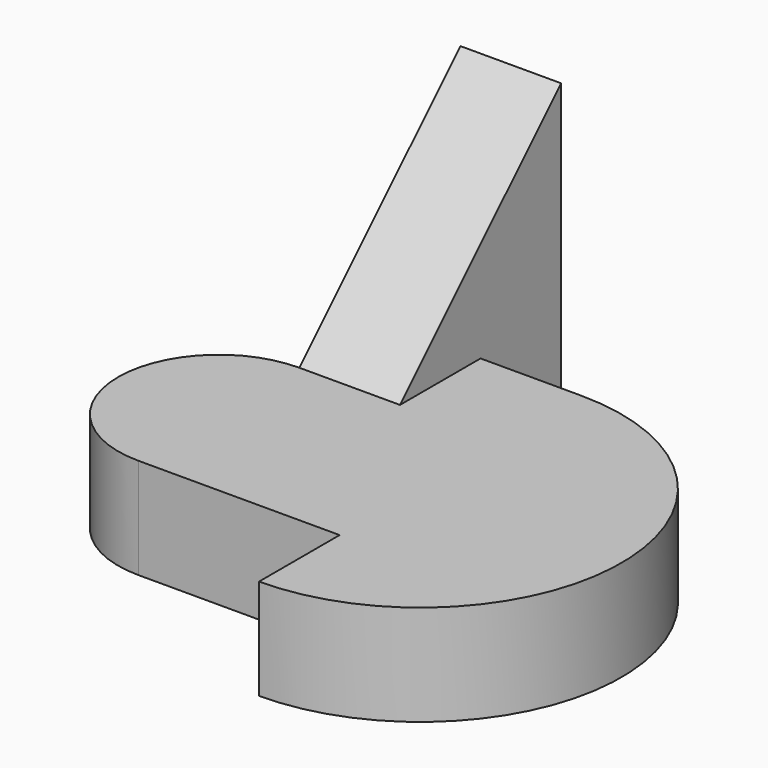
from build123d import *

# Parameters (mm, degrees)
F1_DEPTH = 10
F2_W     = 10
F2_H     = 10
F3_DEPTH = 10


with BuildPart() as f1:
    # F0 (on Top) → F1 (new body)
    with BuildSketch(Plane.XY):
        with BuildLine():
            Line((10, 10), (0, 10))
            ThreePointArc((0, 10), (-10, 0), (0, -10))
            Line((0, -10), (20, -10))
            Line((20, -10), (20, -20))
            ThreePointArc((20, -20), (40, 0), (20, 20))
            Line((20, 20), (10, 20))
            Line((10, 20), (10, 10))
        make_face()
    extrude(amount=F1_DEPTH)

    # F2 (on face) → F3 (join)
    with BuildSketch(Plane(origin=(10, 0, 0), x_dir=(0, -1, 0), z_dir=(-1, 0, 0))):
        Polygon((-30, 0), (-20, 0), (-20, 10), (-10, 10), (-30, 30), align=None)
        with Locations((-15, 5)):
            Rectangle(F2_W, F2_H)
    extrude(amount=F3_DEPTH)


solid = f1.part
